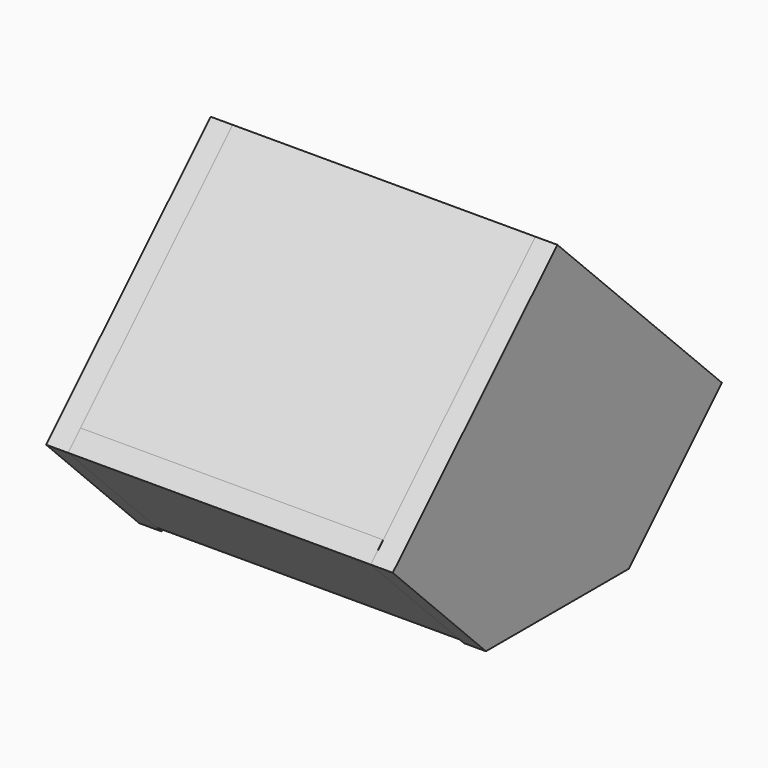
from build123d import *

# Parameters (mm, degrees)
F0_W          = 193
F0_H          = 111
F1_DEPTH      = 8.5
F2_W          = 20
F2_H          = 111
F3_DEPTH      = 5
F4_R          = 1.5
F5_DEPTH      = 5.001
F5_DEPTH_BACK = 2.5
F7_W          = 193
F7_H          = 100
F8_DEPTH      = 7
F11_DEPTH     = 14
F13_W         = 193
F13_H         = 171.1982
F14_DEPTH     = 14


with BuildPart() as f1:
    # F0 (on Top) → F1 (new body)
    with BuildSketch(Plane.XY):
        Rectangle(F0_W, F0_H)
    extrude(amount=F1_DEPTH)


with BuildPart() as f3:
    # F2 (on face) → F3 (new body)
    with BuildSketch(Plane.XY.offset(8.5)):
        with Locations((-63.96, 0)):
            Rectangle(F2_W, F2_H)
        with Locations((63.96, 0)):
            Rectangle(F2_W, F2_H)
    extrude(amount=F3_DEPTH)


with BuildPart() as f5_tool:
    # F4 (on face) → F5 (new body, two sides)
    with BuildSketch(Plane.XY.offset(8.5)) as f5_sk:
        with Locations((-63.96, 33.92)):
            Circle(F4_R)
        with Locations((63.96, 33.92)):
            Circle(F4_R)
        with Locations((-63.96, -33.92)):
            Circle(F4_R)
        with Locations((63.96, -33.92)):
            Circle(F4_R)
    extrude(amount=F5_DEPTH)
    extrude(f5_sk.sketch, amount=-F5_DEPTH_BACK)


with BuildPart() as f1_1:
    add(f1.part)

    # F5: cut by f5_tool
    add(f5_tool.part, mode=Mode.SUBTRACT)


with BuildPart() as f3_1:
    add(f3.part)

    # F5: cut by f5_tool
    add(f5_tool.part, mode=Mode.SUBTRACT)


with BuildPart() as f8:
    # F7 (on face) → F8 (new body, symmetric)
    with BuildSketch(Plane(origin=(0, -23.5, -23.5), x_dir=(-1, 0, 0), z_dir=(0, 0.707107, 0.707107))):
        with Locations((0, 95.254834)):
            Rectangle(F7_W, F7_H)
    extrude(amount=F8_DEPTH, both=True)


with BuildPart() as f9_1:
    # F9: instance of F8
    add(f8.part.mirror(Plane.XZ))


with BuildPart() as f11:
    # F10 (on face) → F11 (new body)
    with BuildSketch(Plane(origin=(-96.5, 0, 0), x_dir=(0, -1, 0), z_dir=(-1, 0, 0))):
        Polygon((56.899495, 0), (131.160426, 74.260931), (0, 205.009963), (-131.160426, 74.260931), (-57.132419, 0), align=None)
    extrude(amount=F11_DEPTH)


with BuildPart() as f12_1:
    # F12: instance of F11
    add(f11.part.mirror(Plane.YZ))


with BuildPart() as f14:
    # F13 (on face) → F14 (new body)
    with BuildSketch(Plane(origin=(0, -102.504476, 102.826999), x_dir=(1, 0, 0), z_dir=(0, -0.705995, 0.708217))):
        with Locations((0, 59.136955)):
            Rectangle(F13_W, F13_H)
    extrude(amount=-F14_DEPTH)


solid = Compound([f3_1.part, f8.part, f9_1.part, f11.part, f12_1.part, f14.part])
